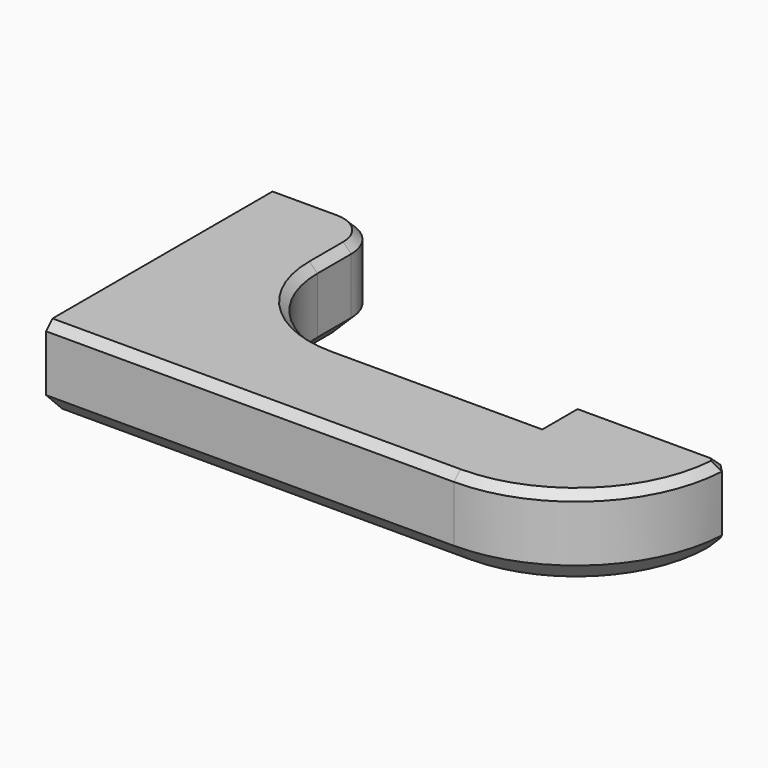
from build123d import *

# Parameters (mm, degrees)
PAD_DEPTH       = 10.5
CHAMFER001_SIZE = 1
SKETCH017_R     = 1.6
POCKET010_DEPTH = 12
SKETCH018_R     = 1.95
POCKET011_DEPTH = 5
FILLET001_R     = 5
CHAMFER002_SIZE = 1
CHAMFER003_SIZE = 2.5


with BuildPart() as part:
    # Sketch016 → Pad (new body)
    with BuildSketch(Plane.XY):
        with BuildLine():
            Line((-12.5, 0), (-12.5, 10.25))
            Line((-12.5, 10.25), (-25.5, 10.25))
            Line((-25.5, 10.25), (-25.5, -26))
            Line((-25.5, -26), (25.3, -26))
            ThreePointArc((25.3, -26), (38.735029, -20.435029), (44.3, -7))
            Line((44.3, -7), (25.3, -7))
            Line((25.3, -7), (25.3, -12.5))
            Line((25.3, -12.5), (0, -12.5))
            ThreePointArc((-12.5, 0), (-8.838835, -8.838835), (0, -12.5))
        make_face()
    extrude(amount=PAD_DEPTH)

    # Chamfer001
    chamfer001_edges = [part.edges().sort_by_distance(p)[0] for p in [
        (44.3, -7, 5.25),
    ]]
    chamfer(chamfer001_edges, length=CHAMFER001_SIZE)

    # Sketch017 (on Face7 of Chamfer001) → Pocket010 (cut)
    with BuildSketch(Plane(origin=(-25.5, 0, 0), x_dir=(0, -1, 0), z_dir=(-1, 0, 0))):
        with Locations((-5.75, 3.7)):
            Circle(SKETCH017_R)
        with Locations((21.5, 3.7)):
            Circle(SKETCH017_R)
    extrude(amount=-POCKET010_DEPTH, mode=Mode.SUBTRACT)

    # Sketch018 (on Face7 of Pocket010) → Pocket011 (cut)
    with BuildSketch(Plane(origin=(-25.5, 0, 0), x_dir=(0, -1, 0), z_dir=(-1, 0, 0))):
        with Locations((-5.75, 3.7)):
            Circle(SKETCH018_R)
        with Locations((21.5, 3.7)):
            Circle(SKETCH018_R)
    extrude(amount=-POCKET011_DEPTH, mode=Mode.SUBTRACT)

    # Fillet001
    fillet001_edges = [part.edges().sort_by_distance(p)[0] for p in [
        (-12.5, 10.25, 5.25),
    ]]
    fillet(fillet001_edges, radius=FILLET001_R)

    # Chamfer002
    chamfer002_edges = [part.edges().sort_by_distance(p)[0] for p in [
        (-21.5, 10.25, 10.5),
        (-0.1, -26, 10.5),
        (-13.964466, 8.785534, 10.5),
        (-12.5, 2.625, 10.5),
        (-8.838835, -8.838835, 10.5),
        (38.376823, -20.783929, 10.5),
        (43.786842, -7.499827, 10.5),
        (34.3, -7, 10.5),
        (25.3, -9.75, 10.5),
        (12.65, -12.5, 10.5),
    ]]
    chamfer(chamfer002_edges, length=CHAMFER002_SIZE)

    # Chamfer003
    chamfer003_edges = [part.edges().sort_by_distance(p)[0] for p in [
        (-21.5, 10.25, 0),
        (-0.1, -26, 0),
    ]]
    chamfer(chamfer003_edges, length=CHAMFER003_SIZE)


with BuildPart() as part_1:
    # Body004 placement: moved
    add(part.part.moved(Location((0, 0, 6.5))))


solid = part_1.part
